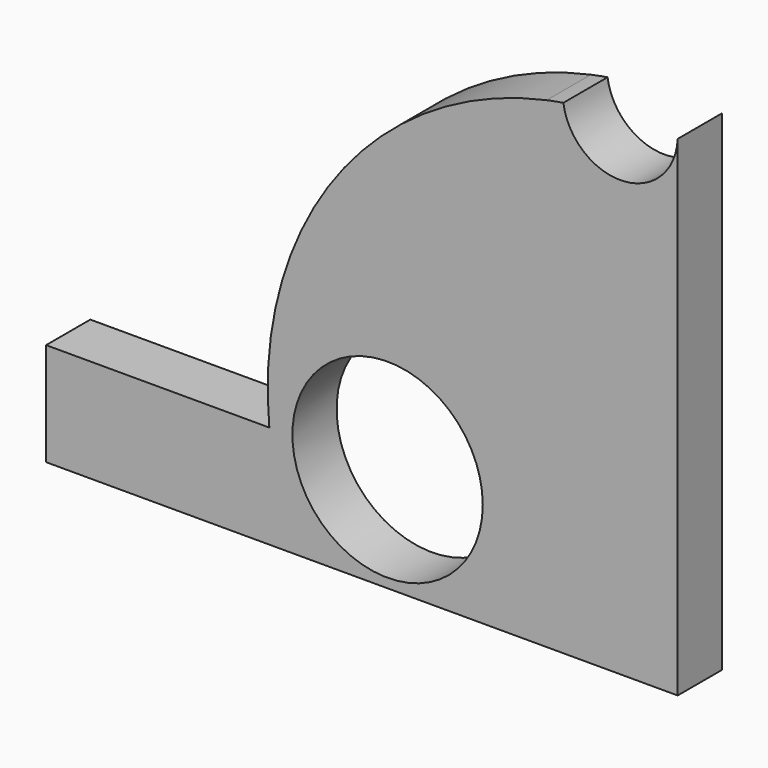
from build123d import *

# Parameters (mm, degrees)
F0_W     = 0.834487
F0_H     = 4.677228
F0_R     = 5.597638
F1_DEPTH = 3.2512


with BuildPart() as f1:
    # F0 (on Front) → F1 (new body)
    with BuildSketch(Plane.XZ):
        with Locations((-16.629863, -2.933552)):
            Rectangle(F0_W, F0_H)
        with BuildLine():
            Line((-17.047107, -5.272166), (-17.047107, -6.060281))
            Line((-17.047107, -6.060281), (20.092821, -6.060281))
            Line((20.092821, -6.060281), (20.092821, 16.750548))
            add(Edge.make_bspline(
                [(12.386335, 22.250686), (13.07097, 20.542209), (14.079554, 17.765705), (18.172912, 18.994402), (19.766842, 17.223716), (20.092821, 16.750548)],
                knots=[0, 0, 0, 0, 4.344221, 8.073844, 10.215903, 10.215903, 10.215903, 10.215903], degree=3))
            ThreePointArc((12.386335, 22.250686), (-0.010698, 14.235434), (-3.920062, 0))
            Line((-3.920062, 0), (-17.047107, 0))
            Line((-17.047107, 0), (-17.047107, -0.594938))
            Line((-17.047107, -0.594938), (-16.21262, -0.594938))
            Line((-16.21262, -0.594938), (-16.21262, -5.272166))
            Line((-16.21262, -5.272166), (-17.047107, -5.272166))
        make_face()
        with Locations((3.032837, 0.080925)):
            Circle(F0_R, mode=Mode.SUBTRACT)
        with BuildLine():
            add(Edge.make_bspline(
                [(12.386335, 22.250686), (13.07097, 20.542209), (14.079554, 17.765705), (18.172912, 18.994402), (19.766842, 17.223716), (20.092821, 16.750548)],
                knots=[0, 0, 0, 0, 4.344221, 8.073844, 10.215903, 10.215903, 10.215903, 10.215903], degree=3))
            Line((20.092821, 16.750548), (20.092821, 22.755181))
            ThreePointArc((20.092821, 22.755181), (16.877156, 19.526201), (13.369215, 22.435008))
            ThreePointArc((13.369215, 22.435008), (12.876662, 22.34878), (12.386335, 22.250686))
        make_face()
    extrude(amount=-F1_DEPTH)


solid = f1.part
